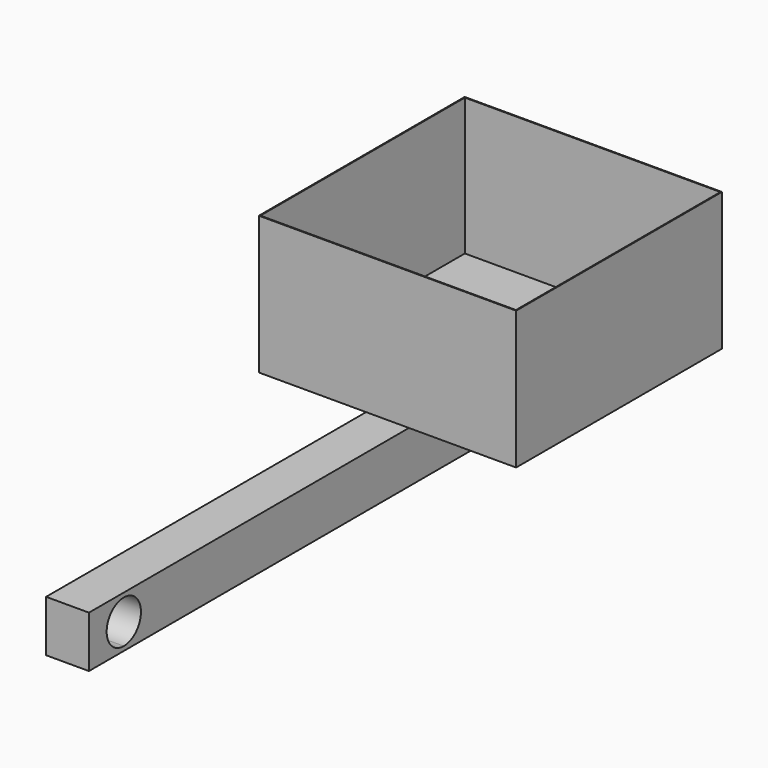
from build123d import *

# Parameters (mm, degrees)
F0_W     = 0.5
F0_H     = 149
F1_DEPTH = 80
F2_W     = 150
F2_H     = 150
F3_DEPTH = 0.5
F5_DEPTH = 30
F7_DEPTH = 87.501
F9_DEPTH = 87.501


with BuildPart() as f1:
    # F0 (on Top) → F1 (new body)
    with BuildSketch(Plane.XY):
        Polygon((88.1122936055, 138.4297020262), (-61.8877063945, 138.4297020262), (-61.8877063945, 137.9297020262), (-61.3877063945, 137.9297020262), (87.6122936055, 137.9297020262), (88.1122936055, 137.9297020262), align=None)
        with Locations((-61.6377063945, 63.4297020262)):
            Rectangle(F0_W, F0_H)
        with Locations((87.8622936055, 63.4297020262)):
            Rectangle(F0_W, F0_H)
        Polygon((-61.3877063945, -11.0702979738), (-61.8877063945, -11.0702979738), (-61.8877063945, -11.5702979738), (88.1122936055, -11.5702979738), (88.1122936055, -11.0702979738), (87.6122936055, -11.0702979738), align=None)
    extrude(amount=F1_DEPTH)

    # F2 (on face) → F3 (join)
    with BuildSketch(Plane(origin=(0, 0, 0), x_dir=(1, 0, 0), z_dir=(0, 0, -1))):
        with Locations((13.1122936055, -63.4297020262)):
            Rectangle(F2_W, F2_H)
    extrude(amount=F3_DEPTH)

    # F4 (on face) → F5 (join)
    with BuildSketch(Plane(origin=(0, 0, -0.5), x_dir=(1, 0, 0), z_dir=(0, 0, -1))):
        Polygon((0.6122936055, -67.6260187756), (25.6122936055, -67.6260187756), (25.6122936055, 11.5702979738), (25.6122936055, 244.7964921594), (0.6122936055, 244.7964921594), (0.6122936055, 11.5702979738), align=None)
    extrude(amount=F5_DEPTH)

    # F6 (on face) → F7 (cut, through all)
    with BuildSketch(Plane.YZ.offset(25.6122936055)):
        with BuildLine():
            Line((85.952706635, -16.575855797), (85.952706635, -14.424144203))
            ThreePointArc((85.952706635, -14.424144203), (84.876850838, -15.5), (85.952706635, -16.575855797))
        make_face()
        with BuildLine():
            ThreePointArc((87.028562432, -15.5), (86.7134515646, -14.7392550704), (85.952706635, -14.424144203))
            Line((85.952706635, -14.424144203), (85.952706635, -16.575855797))
            ThreePointArc((85.952706635, -16.575855797), (86.7134515646, -16.2607449296), (87.028562432, -15.5))
        make_face()
    extrude(amount=-F7_DEPTH, mode=Mode.SUBTRACT)

    # F8 (on face) → F9 (cut, through all)
    with BuildSketch(Plane(origin=(0.6122936055, 0, 0), x_dir=(0, -1, 0), z_dir=(-1, 0, 0))):
        with BuildLine():
            ThreePointArc((231.8976938725, -15.5), (228.2365286373, -6.6611652352), (219.3976938725, -3))
            Line((219.3976938725, -3), (219.3976938725, -28))
            ThreePointArc((219.3976938725, -28), (228.2365286373, -24.3388347648), (231.8976938725, -15.5))
        make_face()
        with BuildLine():
            Line((219.3976938725, -28), (219.3976938725, -3))
            ThreePointArc((219.3976938725, -3), (206.8976938725, -15.5), (219.3976938725, -28))
        make_face()
    extrude(amount=-F9_DEPTH, mode=Mode.SUBTRACT)


solid = f1.part
